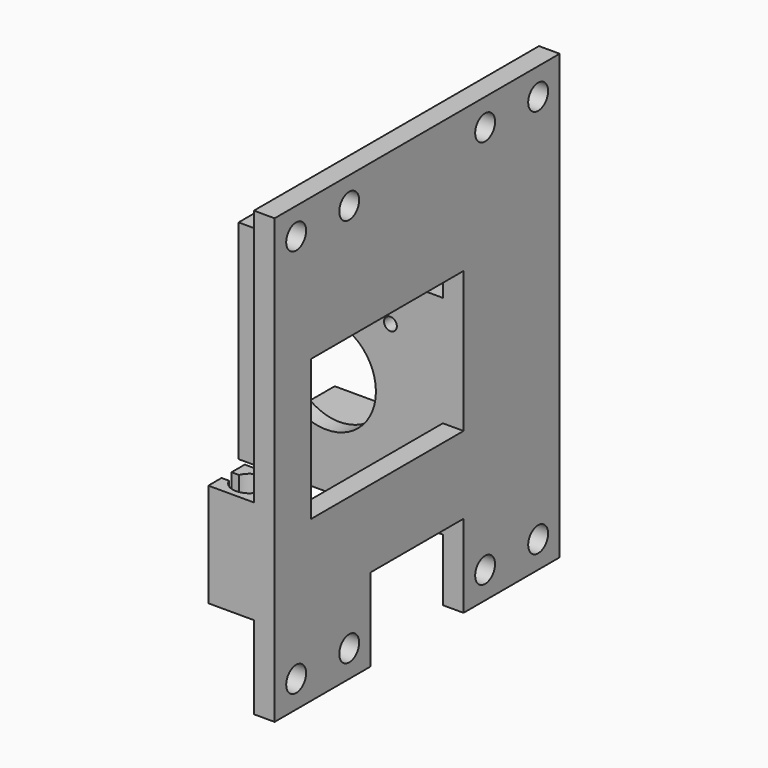
from build123d import *

# Parameters (mm, degrees)
F2_R      = 1.55
F2_R_2    = 12
F4_DEPTH  = 4
F3_R      = 3
F5_DEPTH  = 5
F6_DEPTH  = 16
F2_W      = 50.3
F2_H      = 3.7
F8_DEPTH  = 29
F10_DEPTH = 25


with BuildPart() as f4:
    # F2 (on Front) → F4 (new body)
    with BuildSketch(Plane.XZ):
        Polygon((29.15, -21.45), (29.15, 21.45), (-21.15, 21.45), (-21.15, 21.15), (-21.15, -21.45), (21.45, -21.45), align=None)
        with Locations((-15.5, -15.5)):
            Circle(F2_R, mode=Mode.SUBTRACT)
        Circle(F2_R_2, mode=Mode.SUBTRACT)
        with Locations((15.5, -15.5)):
            Circle(F2_R, mode=Mode.SUBTRACT)
        with Locations((-15.5, 15.5)):
            Circle(F2_R, mode=Mode.SUBTRACT)
        with Locations((15.5, 15.5)):
            Circle(F2_R, mode=Mode.SUBTRACT)
    extrude(amount=-F4_DEPTH)



with BuildPart() as f5:
    # F3 (on Right) → F5 (new body)
    with BuildSketch(Plane.YZ):
        Polygon((29, 66.85), (0, 66.85), (-57, 66.85), (-57, 40.85), (-57, 4.85), (-46, 4.85), (-46, 32.5), (0, 32.5), (0, 0), (0, -1.5), (-46, -1.5), (-46, -20.15), (-28, -20.15), (0, -20.15), (0, -40.15), (29, -40.15), align=None)
        with Locations((6.5, -33.65)):
            Circle(F3_R, mode=Mode.SUBTRACT)
        with Locations((22.5, -33.65)):
            Circle(F3_R, mode=Mode.SUBTRACT)
        with Locations((-50.5, 60.35)):
            Circle(F3_R, mode=Mode.SUBTRACT)
        with Locations((-34.5, 60.35)):
            Circle(F3_R, mode=Mode.SUBTRACT)
        with Locations((6.5, 60.35)):
            Circle(F3_R, mode=Mode.SUBTRACT)
        with Locations((22.5, 60.35)):
            Circle(F3_R, mode=Mode.SUBTRACT)
        Polygon((-46, 4.85), (-57, 4.85), (-57, -20.15), (-46, -20.15), (-46, -1.5), align=None)
        Polygon((-46, -20.15), (-57, -20.15), (-57, -40.15), (-28, -40.15), (-28, -20.15), align=None)
        with Locations((-50.5, -33.65)):
            Circle(F3_R, mode=Mode.SUBTRACT)
        with Locations((-34.5, -33.65)):
            Circle(F3_R, mode=Mode.SUBTRACT)
    extrude(amount=-F5_DEPTH)

    # F3 (on Right) → F6 (join)
    with BuildSketch(Plane.YZ):
        Polygon((-46, 4.85), (-57, 4.85), (-57, -20.15), (-46, -20.15), (-46, -1.5), align=None)
    extrude(amount=-F6_DEPTH)


with BuildPart() as f5_1:
    # F7: moved
    add(f5.part.moved(Location((33.15, 0, 0))))


with BuildPart() as f4_1:
    add(f4.part)

    add(f5_1.part)  # F8 merges F5
    # F2 (on Front) → F8 (join, through all)
    with BuildSketch(Plane.XZ):
        Polygon((-21.15, -25.15), (29.15, -25.15), (29.15, -21.45), (21.45, -21.45), (-21.15, -21.45), align=None)
        with Locations((4, 23.3)):
            Rectangle(F2_W, F2_H)
    extrude(amount=-F8_DEPTH)

    # F9 (on face) → F10 (cut, through all)
    with BuildSketch(Plane(origin=(0, 0, -20.15), x_dir=(1, 0, 0), z_dir=(0, 0, -1))):
        with BuildLine():
            Line((9.1694937954, 50), (18.9419007565, 50))
            ThreePointArc((18.9419007565, 50), (26.65, 51.5), (18.9419007565, 53))
            Line((18.9419007565, 53), (9.1694937954, 53))
            Line((9.1694937954, 53), (9.1694937954, 50))
        make_face()
    extrude(amount=-F10_DEPTH, mode=Mode.SUBTRACT)


solid = f4_1.part
